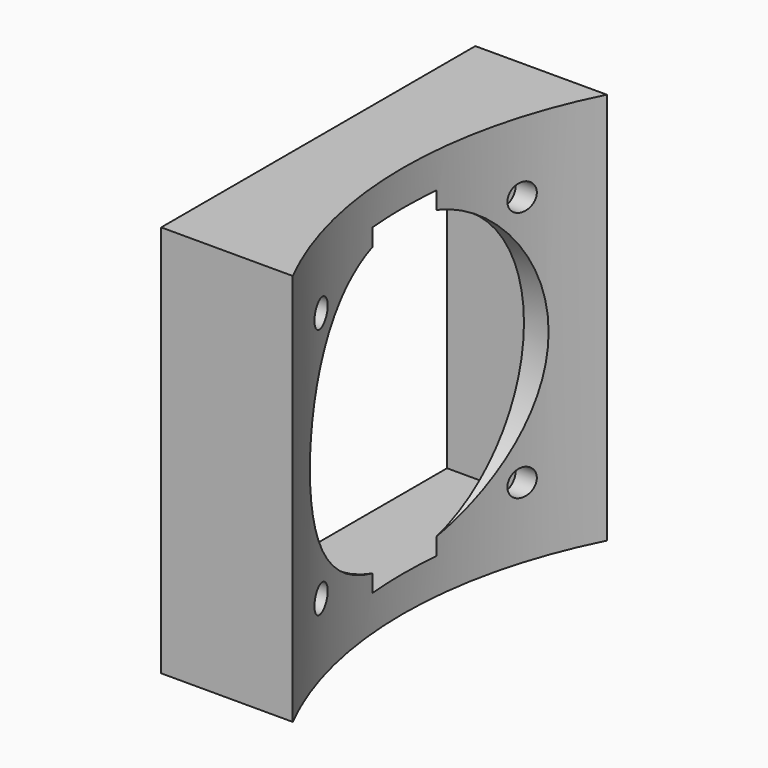
from build123d import *

# Parameters (mm, degrees)
PAD_DEPTH       = 50
SKETCH001_W     = 41
SKETCH001_H     = 41
POCKET_DEPTH    = 11
SKETCH002_R     = 1.7
SKETCH002_R_2   = 19
POCKET001_DEPTH = 5.751


with BuildPart() as part:
    # Sketch → Pad (new body)
    with BuildSketch(Plane.XY):
        with BuildLine():
            Line((16.75, 25), (0, 25))
            Line((0, 25), (0, -25))
            Line((0, -25), (16.75, -25))
            ThreePointArc((16.75, 25), (10.764226, 0), (16.75, -25))
        make_face()
    extrude(amount=PAD_DEPTH)

    # Sketch001 (on Face2 of Pad) → Pocket (cut)
    with BuildSketch(Plane(origin=(0, 0, 0), x_dir=(0, -1, 0), z_dir=(-1, 0, 0))):
        with Locations((0, 25)):
            Rectangle(SKETCH001_W, SKETCH001_H)
    extrude(amount=-POCKET_DEPTH, mode=Mode.SUBTRACT)

    # Sketch002 (on Face9 of Pocket) → Pocket001 (cut, through all)
    with BuildSketch(Plane(origin=(11, 0, 0), x_dir=(0, -1, 0), z_dir=(-1, 0, 0))):
        with Locations((-16, 41)):
            Circle(SKETCH002_R)
        with Locations((16, 41)):
            Circle(SKETCH002_R)
        with Locations((16, 9)):
            Circle(SKETCH002_R)
        with Locations((-16, 9)):
            Circle(SKETCH002_R)
        with Locations((0, 25)):
            Circle(SKETCH002_R_2)
    extrude(amount=-POCKET001_DEPTH, mode=Mode.SUBTRACT)


solid = part.part
